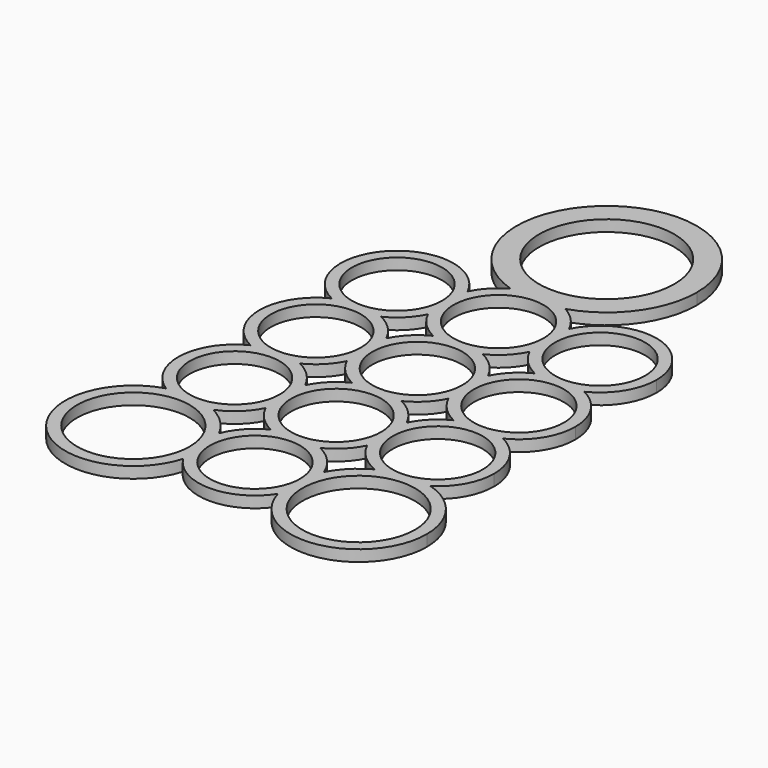
from build123d import *

# Parameters (mm, degrees)
F0_W     = 112.4385967851
F0_H     = 188.8671554625
F0_R     = 15.875
F0_R_2   = 12.7
F0_R_3   = 19.05
F1_DEPTH = 3.175
F2_W     = 112.4385967851
F2_H     = 188.8671554625
F3_DEPTH = 25.4


with BuildPart() as f1:
    # F0 (on Top) → F1 (new body)
    with BuildSketch(Plane.XY):
        with Locations((28.6107622087, 28.6107677966)):
            Rectangle(F0_W, F0_H)
        with Locations((-3.1392377913, -31.75)):
            Circle(F0_R, mode=Mode.SUBTRACT)
        with Locations((28.6107622087, -28.6004)):
            Circle(F0_R_2, mode=Mode.SUBTRACT)
        Circle(F0_R_2, mode=Mode.SUBTRACT)
        with Locations((28.6107622087, 0)):
            Circle(F0_R_2, mode=Mode.SUBTRACT)
        with Locations((60.3607622087, -31.75)):
            Circle(F0_R, mode=Mode.SUBTRACT)
        with Locations((57.2215244174, 0)):
            Circle(F0_R_2, mode=Mode.SUBTRACT)
        with Locations((0, 28.6107677966)):
            Circle(F0_R_2, mode=Mode.SUBTRACT)
        with Locations((0, 57.2111677966)):
            Circle(F0_R_2, mode=Mode.SUBTRACT)
        with Locations((28.6107622087, 28.6107677966)):
            Circle(F0_R_2, mode=Mode.SUBTRACT)
        with Locations((28.6107622087, 57.2111677966)):
            Circle(F0_R_2, mode=Mode.SUBTRACT)
        with Locations((28.6107622087, 95.3111677966)):
            Circle(F0_R_3, mode=Mode.SUBTRACT)
        with Locations((57.2215244174, 28.6107677966)):
            Circle(F0_R_2, mode=Mode.SUBTRACT)
        with Locations((57.2215244174, 57.2111677966)):
            Circle(F0_R_2, mode=Mode.SUBTRACT)
    extrude(amount=F1_DEPTH)

    # F2 (on face) → F3 (cut)
    with BuildSketch(Plane.XY.offset(3.175)):
        with Locations((28.6107622087, 28.6107677966)):
            Rectangle(F2_W, F2_H)
        with BuildLine():
            ThreePointArc((20.8784768956, 71.1167105009), (13.6314439157, 115.824091125), (54.0107622087, 95.3111677966))
            ThreePointArc((54.0107622087, 95.3111677966), (49.1236855371, 80.3318495036), (36.3430475218, 71.1167105009))
            ThreePointArc((36.3430475218, 71.1167105009), (40.1631717397, 68.1516517023), (42.9161433131, 64.1759668261))
            ThreePointArc((42.9161433131, 64.1759668261), (60.7952365635, 72.715390949), (73.1322866261, 57.2111677966))
            ThreePointArc((73.1322866261, 57.2111677966), (70.7147963313, 48.7800369638), (64.1969551584, 42.9109677966))
            ThreePointArc((64.1969551584, 42.9109677966), (70.7147963313, 37.0418986294), (73.1322866261, 28.6107677966))
            ThreePointArc((73.1322866261, 28.6107677966), (70.7116620279, 20.1746228647), (64.1863240909, 14.3053870058))
            ThreePointArc((64.1863240909, 14.3053870058), (70.7116660444, 8.4361490481), (73.132292214, 0))
            ThreePointArc((73.132292214, 0), (71.2000982328, -7.5994740585), (65.8728052171, -13.3531970855))
            ThreePointArc((65.8728052171, -13.3531970855), (75.766649881, -20.2833701277), (79.5655786775, -31.75))
            ThreePointArc((79.5655786775, -31.75), (63.1358397408, -50.7532607805), (41.9579378153, -37.2419058575))
            ThreePointArc((41.9579378153, -37.2419058575), (28.6107622087, -44.5008), (15.2635866021, -37.2419058575))
            ThreePointArc((15.2635866021, -37.2419058575), (-16.7116606729, -45.3372849651), (-8.6512807997, -13.3531970855))
            ThreePointArc((-8.6512807997, -13.3531970855), (-15.8808701583, 0.9749332764), (-6.9529550782, 14.3111476674))
            ThreePointArc((-6.9529550782, 14.3111476674), (-15.9003988973, 28.6048460855), (-6.9636042292, 42.9052050468))
            ThreePointArc((-6.9636042292, 42.9052050468), (-11.2510776635, 68.4613058168), (14.3053811044, 64.1759668261))
            ThreePointArc((14.3053811044, 64.1759668261), (17.0583526777, 68.1516517023), (20.8784768956, 71.1167105009))
        make_face(mode=Mode.SUBTRACT)
        with BuildLine():
            ThreePointArc((14.3053811043, -6.9648117949), (10.8191046051, -11.6661693551), (5.8687746425, -14.7888476926))
            ThreePointArc((5.8687746425, -14.7888476926), (10.4436598742, -18.1731864338), (13.8259486181, -22.7495874708))
            ThreePointArc((13.8259486181, -22.7495874708), (16.9457643394, -17.795283394), (21.6471515982, -14.3059658585))
            ThreePointArc((21.6471515982, -14.3059658585), (17.3606227479, -11.2510841251), (14.3053811044, -6.9648117949))
        make_face()
        with BuildLine():
            ThreePointArc((35.5743728192, -14.3059658585), (40.275760078, -17.795283394), (43.3955757993, -22.7495874708))
            ThreePointArc((43.3955757993, -22.7495874708), (46.7778645432, -18.1731864338), (51.352749775, -14.7888476926))
            ThreePointArc((51.352749775, -14.7888476926), (46.4024198123, -11.6661693551), (42.9161433131, -6.9648117949))
            ThreePointArc((42.9161433131, -6.9648117949), (39.8609016695, -11.2510841251), (35.5743728192, -14.3059658585))
        make_face()
        with BuildLine():
            ThreePointArc((14.2996204416, 21.6578133609), (11.2432809162, 17.3674873857), (6.9529550782, 14.3111476674))
            ThreePointArc((6.9529550782, 14.3111476674), (11.2459493597, 11.2552723147), (14.3053811043, 6.9648117949))
            ThreePointArc((14.3053811044, 6.9648117949), (17.3601551723, 11.2506165694), (21.6459625352, 14.3053870058))
            ThreePointArc((21.6459625352, 14.3053870058), (17.355498357, 17.3648178728), (14.2996204416, 21.6578133609))
        make_face()
        with BuildLine():
            ThreePointArc((50.2567247439, 14.3053870058), (45.9709163125, 17.3601601983), (42.9161433131, 21.6459687672))
            ThreePointArc((42.9161433131, 21.6459687672), (39.8613703136, 17.3601601983), (35.5755618822, 14.3053870058))
            ThreePointArc((35.5755618822, 14.3053870058), (39.8613692451, 11.2506165694), (42.9161433131, 6.9648117949))
            ThreePointArc((42.9161433131, 6.9648117949), (45.970917381, 11.2506165694), (50.2567247439, 14.3053870058))
        make_face()
        with BuildLine():
            ThreePointArc((21.6353314677, 42.9109677966), (17.3559736701, 45.9647421861), (14.3053811044, 50.2463687672))
            ThreePointArc((14.3053811044, 50.2463687672), (11.2501380202, 45.9600901332), (6.9636042292, 42.9052050468))
            ThreePointArc((6.9636042292, 42.9052050468), (11.2474674185, 39.8498601457), (14.2996204416, 35.5637222323))
            ThreePointArc((14.2996204416, 35.5637222323), (17.3513196546, 39.8525340027), (21.6353314677, 42.9109677966))
        make_face()
        with BuildLine():
            ThreePointArc((50.2460936764, 42.9109677966), (45.9667358788, 45.9647421861), (42.9161433131, 50.2463687672))
            ThreePointArc((42.9161433131, 50.2463687672), (39.8655507473, 45.9647421861), (35.5861929497, 42.9109677966))
            ThreePointArc((35.5861929497, 42.9109677966), (39.8655507473, 39.8571934072), (42.9161433131, 35.5755668261))
            ThreePointArc((42.9161433131, 35.5755668261), (45.9667358788, 39.8571934072), (50.2460936764, 42.9109677966))
        make_face()
    extrude(amount=-F3_DEPTH, mode=Mode.SUBTRACT)


solid = f1.part
